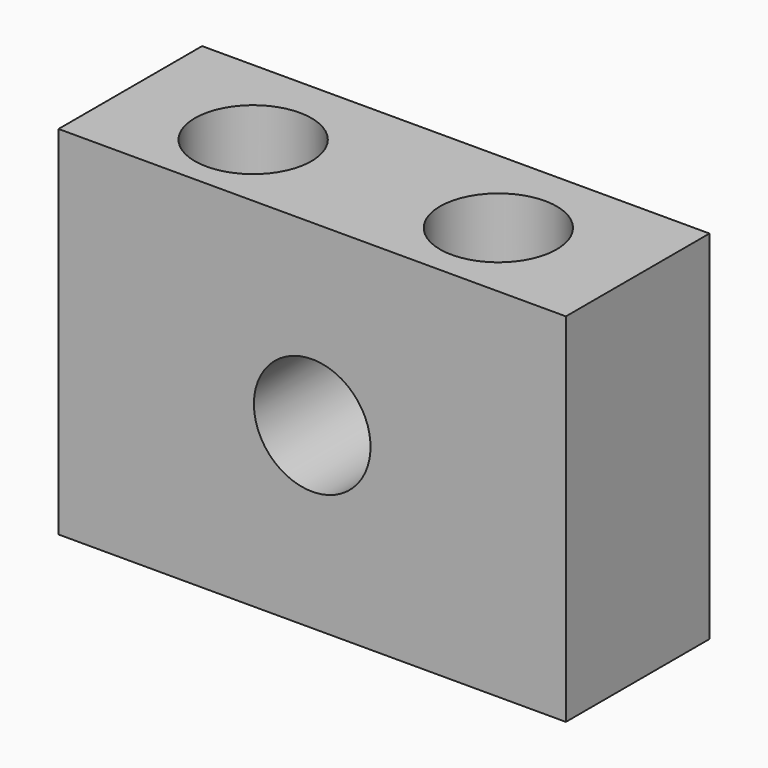
from build123d import *

# Parameters (mm, degrees)
F0_W     = 71.80953
F0_H     = 50.532632
F1_DEPTH = 25.4
F3_D     = 16.51
F5_D     = 16.51


with BuildPart() as f1:
    # F0 (on Front) → F1 (new body)
    with BuildSketch(Plane.XZ):
        Rectangle(F0_W, F0_H)
    extrude(amount=F1_DEPTH)

    # F3 (through all)
    with Locations(Plane.XZ.offset(25.4)):
        with Locations((0, 0)):
            Hole(F3_D / 2)

    # F5 (through all)
    with Locations(Plane.XY.offset(25.266316)):
        with Locations((-17.509114, -13.962964), (16.844211, -13.519696)):
            Hole(F5_D / 2)


solid = f1.part
